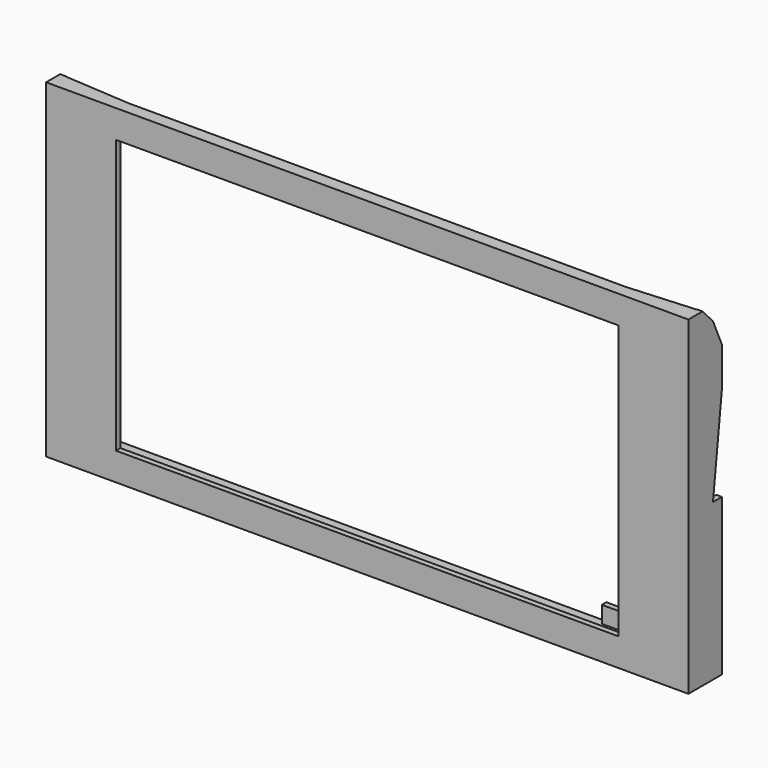
from build123d import *

# Parameters (mm, degrees)
EXTRUDE_DEPTH    = 2
EXTRUDE001_DEPTH = 2
EXTRUDE002_DEPTH = 2
BOX009_W         = 226
BOX009_H         = 17
BOX009_DEPTH     = 2
BOX015_W         = 10
BOX015_H         = 3
BOX015_DEPTH     = 10
BOX010_W         = 3
BOX010_H         = 13.5
BOX010_DEPTH     = 15
BOX022_W         = 30
BOX022_H         = 2
BOX022_DEPTH     = 6
BOX023_W         = 6
BOX023_H         = 2
BOX023_DEPTH     = 20
BOX001_W         = 180
BOX001_H         = 34
BOX001_DEPTH     = 98
BOX_W            = 226
BOX_H            = 2
BOX_DEPTH        = 118


with BuildPart() as top_thin_beam:
    # Sketch (on Sketch) → Extrude (new body)
    with BuildSketch(Plane.XY):
        Polygon((0, 0), (0, 6.3), (26, 4.5), (204, 4.5), (230, 6.3), (230, 0), align=None)
    extrude(amount=EXTRUDE_DEPTH)


with BuildPart() as top_thin_beam_1:
    # Extrude placement: moved
    add(top_thin_beam.part.moved(Location((0, 0, 116))))


with BuildPart() as rightverticalcontour:
    # Sketch001 → Extrude001 (new body)
    with BuildSketch(Plane.YZ):
        Polygon((0, 0), (15, 0), (15, 56), (11, 56), (15, 90), (15, 104), (11, 113), (6.3, 118), (0, 118), align=None)
    extrude(amount=EXTRUDE001_DEPTH)


with BuildPart() as rightverticalcontour_1:
    # Extrude001 placement: moved
    add(rightverticalcontour.part.moved(Location((228, 0, 0))))


with BuildPart() as obj1:
    # Sketch002 → Extrude002 (new body)
    with BuildSketch(Plane.YZ):
        Polygon((0, 0), (15, 0), (15, 56), (11, 56), (15, 90), (15, 104), (11, 113), (6.3, 118), (0, 118), align=None)
    extrude(amount=EXTRUDE002_DEPTH)


with BuildPart() as bottom:
    # Box009 → Box009 (new body)
    with BuildSketch(Plane(origin=(2, 0, 0), x_dir=(1, 0, 0), z_dir=(0, 0, 1))):
        with Locations((113, 8.5)):
            Rectangle(BOX009_W, BOX009_H)
    extrude(amount=BOX009_DEPTH)


with BuildPart() as slot:
    # Box015 → Box015 (new body)
    with BuildSketch(Plane(origin=(-3.5, 7.5, 7.5), x_dir=(1, 0, 0), z_dir=(0, 0, 1))):
        with Locations((5, 1.5)):
            Rectangle(BOX015_W, BOX015_H)
    extrude(amount=BOX015_DEPTH)


with BuildPart() as base:
    # Box010 → Box010 (new body)
    with BuildSketch(Plane.XY):
        with Locations((1.5, 6.75)):
            Rectangle(BOX010_W, BOX010_H)
    extrude(amount=BOX010_DEPTH)


with BuildPart() as topleftbacksupport:
    # Cut001 base: copy of base
    add(base.part)

    # Cut001: cut slot
    add(slot.part, mode=Mode.SUBTRACT)


with BuildPart() as topleftbacksupport_1:
    # Cut001 placement: moved
    add(topleftbacksupport.part.moved(Location((9, 2, 79.25))))


with BuildPart() as bottomleftbacksupport:
    # Cut002 base: copy of base
    add(base.part)

    # Cut002: cut slot
    add(slot.part, mode=Mode.SUBTRACT)


with BuildPart() as bottomleftbacksupport_1:
    # Cut002 placement: moved
    add(bottomleftbacksupport.part.moved(Location((9, 2, 22.75))))


with BuildPart() as bottomrightbacksupport:
    # Cut003 base: copy of base
    add(base.part)

    # Cut003: cut slot
    add(slot.part, mode=Mode.SUBTRACT)


with BuildPart() as bottomrightbacksupport_1:
    # Cut003 placement: moved
    add(bottomrightbacksupport.part.moved(Location((212, 2, 22.75))))


with BuildPart() as toprightbacksupport:
    # Cut004 base: copy of base
    add(base.part)

    # Cut004: cut slot
    add(slot.part, mode=Mode.SUBTRACT)


with BuildPart() as toprightbacksupport_1:
    # Cut004 placement: moved
    add(toprightbacksupport.part.moved(Location((212, 2, 79.25))))


with BuildPart() as bottomcableguard:
    # Box022 → Box022 (new body)
    with BuildSketch(Plane(origin=(187, 15, 2), x_dir=(1, 0, 0), z_dir=(0, 0, 1))):
        with Locations((15, 1)):
            Rectangle(BOX022_W, BOX022_H)
    extrude(amount=BOX022_DEPTH)


with BuildPart() as sidecableguard:
    # Box023 → Box023 (new body)
    with BuildSketch(Plane(origin=(222, 13, 12), x_dir=(1, 0, 0), z_dir=(0, 0, 1))):
        with Locations((3, 1)):
            Rectangle(BOX023_W, BOX023_H)
    extrude(amount=BOX023_DEPTH)


with BuildPart() as cube001:
    # Box001 → Box001 (new body)
    with BuildSketch(Plane(origin=(25, -17, 10), x_dir=(1, 0, 0), z_dir=(0, 0, 1))):
        with Locations((90, 17)):
            Rectangle(BOX001_W, BOX001_H)
    extrude(amount=BOX001_DEPTH)


with BuildPart() as fusion:
    # Box → Box (new body)
    with BuildSketch(Plane(origin=(2, 0, 0), x_dir=(1, 0, 0), z_dir=(0, 0, 1))):
        with Locations((113, 1)):
            Rectangle(BOX_W, BOX_H)
    extrude(amount=BOX_DEPTH)

    # Cut: cut Cube001
    add(cube001.part, mode=Mode.SUBTRACT)

    # Fusion: union Top Thin Beam, RightVerticalContour, obj1, Bottom, TopLeftBackSupport, BottomLeftBackSupport, BottomRightBackSupport, TopRightBackSupport, BottomCableGuard, SideCableGuard
    add(top_thin_beam_1.part)
    add(rightverticalcontour_1.part)
    add(obj1.part)
    add(bottom.part)
    add(topleftbacksupport_1.part)
    add(bottomleftbacksupport_1.part)
    add(bottomrightbacksupport_1.part)
    add(toprightbacksupport_1.part)
    add(bottomcableguard.part)
    add(sidecableguard.part)


solid = fusion.part
